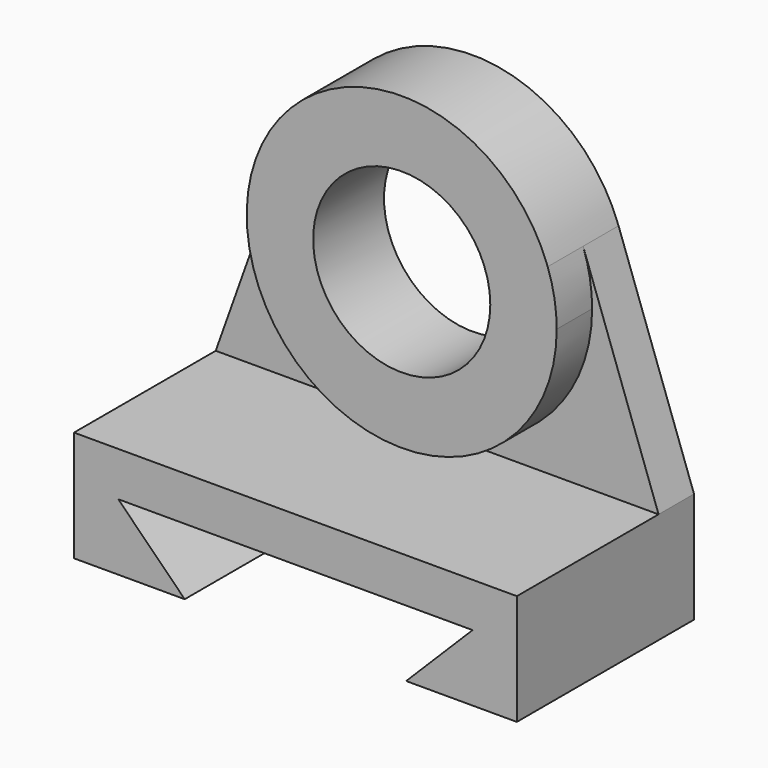
from build123d import *

# Parameters (mm, degrees)
F1_DEPTH = 127
F2_DEPTH = 25.4
F0_R     = 50.8
F3_DEPTH = 50.8


with BuildPart() as f1:
    # F0 (on Front) → F1 (new body)
    with BuildSketch(Plane.XZ):
        Polygon((254, 0), (0, 0), (0, -63.5), (63.5, -63.5), (25.4, -25.4), (228.6, -25.4), (190.5, -63.5), (254, -63.5), align=None)
    extrude(amount=F1_DEPTH)

    # F0 (on Front) → F2 (join)
    with BuildSketch(Plane.XZ):
        with BuildLine():
            Line((43.266761, 121.30561), (0, 0))
            Line((0, 0), (254, 0))
            Line((254, 0), (210.733239, 121.30561))
            ThreePointArc((210.733239, 121.30561), (214.598787, 106.59462), (215.9, 91.44))
            ThreePointArc((215.9, 91.44), (111.84538, 3.841213), (43.266761, 121.30561))
        make_face()
    extrude(amount=F2_DEPTH)

    # F0 (on Front) → F3 (join)
    with BuildSketch(Plane.XZ):
        with BuildLine():
            ThreePointArc((210.733239, 121.30561), (127, 180.34), (43.266761, 121.30561))
            ThreePointArc((43.266761, 121.30561), (111.84538, 3.841213), (215.9, 91.44))
            ThreePointArc((215.9, 91.44), (214.598787, 106.59462), (210.733239, 121.30561))
        make_face()
        with Locations((127, 91.44)):
            Circle(F0_R, mode=Mode.SUBTRACT)
    extrude(amount=F3_DEPTH)


solid = f1.part
